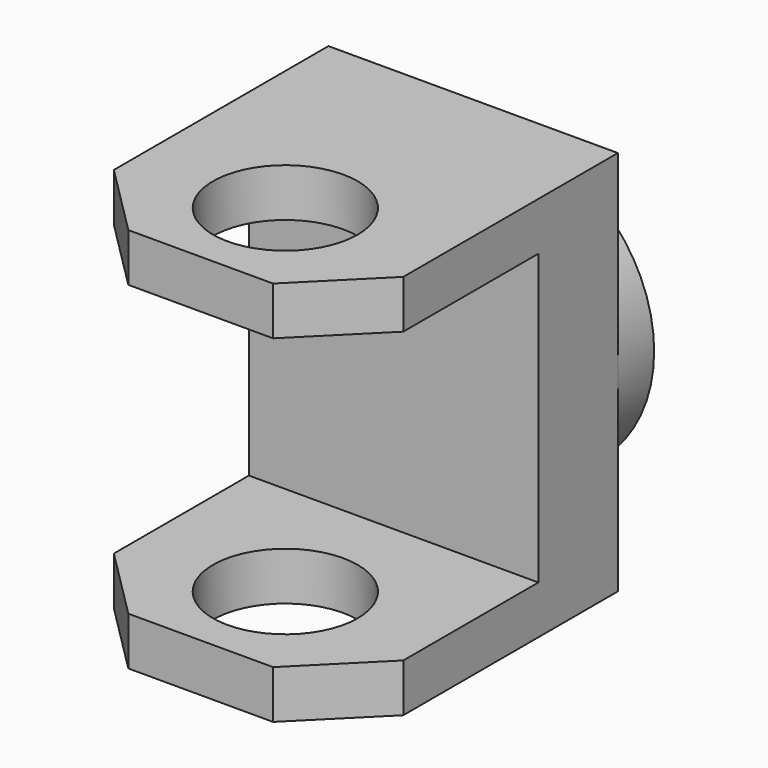
from build123d import *

# Parameters (mm, degrees)
F2_DEPTH = 19.05
F3_R     = 9.525
F4_DEPTH = 50.801
F5_SIZE  = 9.525
F0_R     = 19.05
F6_DEPTH = 12.7


with BuildPart() as f2:
    # F1 (on Right) → F2 (new body, symmetric)
    with BuildSketch(Plane.YZ):
        Polygon((-38.1, -19.05), (-38.1, -25.4), (6.7289513536, -25.4), (6.7289513536, 25.4), (-38.1, 25.4), (-38.1, 19.05), (-6.35, 19.05), (-6.35, -19.05), align=None)
    extrude(amount=F2_DEPTH, both=True)

    # F3 (on face) → F4 (cut, through all)
    with BuildSketch(Plane(origin=(0, 0, -25.4), x_dir=(1, 0, 0), z_dir=(0, 0, -1))):
        with Locations((0, 24.1716690361)):
            Circle(F3_R)
    extrude(amount=-F4_DEPTH, mode=Mode.SUBTRACT)

    # F5
    f5_edges = [f2.edges().sort_by_distance(p)[0] for p in [
        (-19.05, -38.1, 22.225),
        (19.05, -38.1, 22.225),
        (-19.05, -38.1, -22.225),
        (19.05, -38.1, -22.225),
    ]]
    chamfer(f5_edges, length=F5_SIZE)

    # F0 (on Front) → F6 (join)
    with BuildSketch(Plane.XZ):
        Circle(F0_R)
    extrude(amount=-F6_DEPTH)


solid = f2.part
